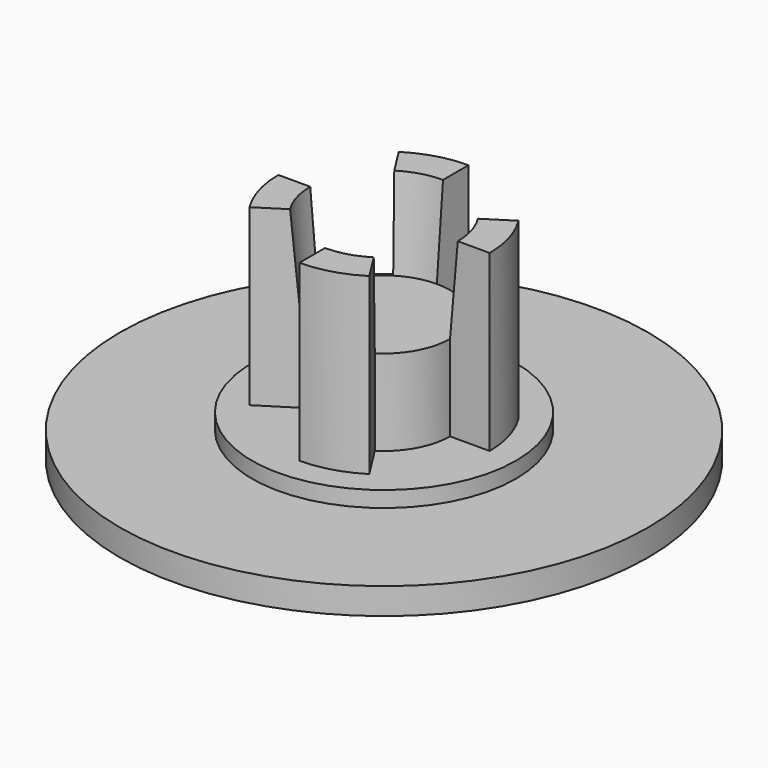
from build123d import *

# Parameters (mm, degrees)
F3_DEPTH = 6.6
F4_COUNT = 4
F5_DEPTH = 3.35
F5_TAPER = -5


with BuildPart() as f1:
    # F0 (on Front) → F1 (revolve)
    with BuildSketch(Plane.XZ):
        Polygon((0, 4.85), (0, 0), (10, 0), (10, 1), (5, 1), (5, 1.6), (2.5, 1.6), (2.5, 3.85), (2.5, 4.85), align=None)
    revolve(axis=Axis((0, 0, 2.425), (0, 0, -1)))

    # F2 (on face) → F3 (join)
    with BuildSketch(Plane.XY.offset(1.6)):
        with BuildLine():
            ThreePointArc((4, 0), (3.8409617055, 1.1166974421), (3.3764934114, 2.1445960558))
            Line((3.3764934114, 2.1445960558), (2.1103083822, 1.3403725349))
            ThreePointArc((2.1103083822, 1.3403725349), (2.4006010659, 0.6979359013), (2.5, 0))
            Line((2.5, 0), (4, 0))
        make_face()
    extrude(amount=F3_DEPTH)

    # F4: F1 ×4 about axis
    f4_axis = Axis((0, 0, 2.425), (0, 0, -1))


with BuildPart() as f1_1:
    add(f1.part)
    for i in range(1, F4_COUNT):
        add(f1.part.rotate(f4_axis, i * 360 / F4_COUNT))

    # F1_face1 (on face) → F5 (cut, through all)
    with BuildSketch(Plane.XY.offset(4.85)):
        with BuildLine():
            ThreePointArc((1.3403725349, -2.1103083822), (2.1909965013, -1.203966084), (2.5, 0))
            ThreePointArc((2.5, 0), (2.4006010659, 0.6979359013), (2.1103083822, 1.3403725349))
            ThreePointArc((2.1103083822, 1.3403725349), (1.203966084, 2.1909965013), (0, 2.5))
            ThreePointArc((0, 2.5), (-0.6979359013, 2.4006010659), (-1.3403725349, 2.1103083822))
            ThreePointArc((-1.3403725349, 2.1103083822), (-2.1909965013, 1.203966084), (-2.5, 0))
            ThreePointArc((-2.5, 0), (-2.4006010659, -0.6979359013), (-2.1103083822, -1.3403725349))
            ThreePointArc((-2.1103083822, -1.3403725349), (-1.203966084, -2.1909965013), (0, -2.5))
            ThreePointArc((0, -2.5), (0.6979359013, -2.4006010659), (1.3403725349, -2.1103083822))
        make_face()
    extrude(amount=F5_DEPTH, taper=F5_TAPER, mode=Mode.SUBTRACT)


solid = f1_1.part
